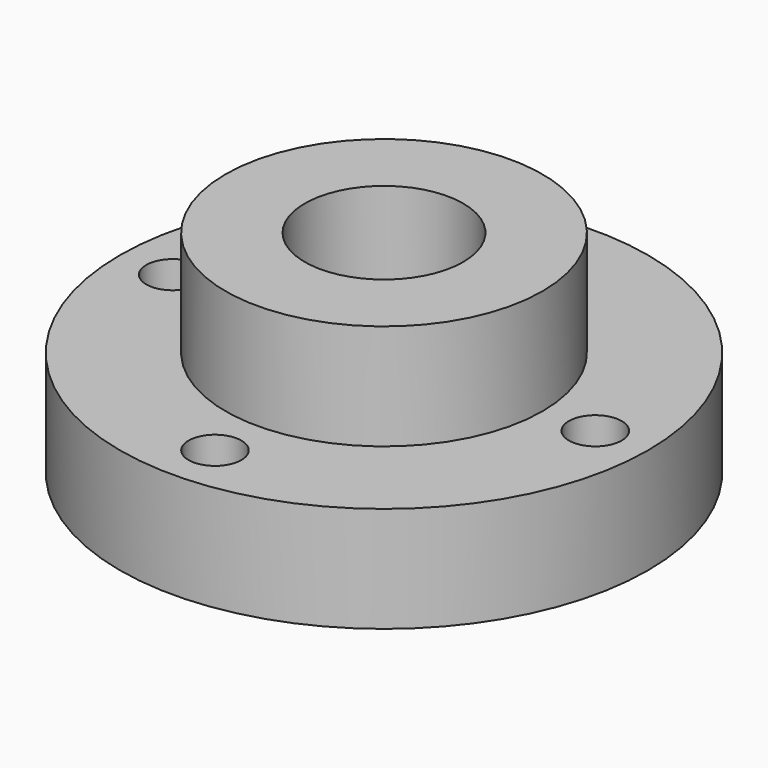
from build123d import *

# Parameters (mm, degrees)
F0_R     = 19.05
F0_R_2   = 31.75
F1_DEPTH = 12.7
F2_DEPTH = 25.4
F3_R     = 9.525
F4_DEPTH = 25.401
F5_R     = 3.175
F6_DEPTH = 12.701


with BuildPart() as f1:
    # F0 (on Top) → F1 (new body)
    with BuildSketch(Plane.XY):
        Circle(F0_R)
        Circle(F0_R_2)
        Circle(F0_R, mode=Mode.SUBTRACT)
    extrude(amount=F1_DEPTH)

    # F0 (on Top) → F2 (join)
    with BuildSketch(Plane.XY):
        Circle(F0_R)
    extrude(amount=F2_DEPTH)

    # F3 (on face) → F4 (cut, through all)
    with BuildSketch(Plane.XY.offset(25.4)):
        Circle(F3_R)
    extrude(amount=-F4_DEPTH, mode=Mode.SUBTRACT)

    # F5 (on face) → F6 (cut, through all)
    with BuildSketch(Plane.XY.offset(12.7)):
        with Locations((-25.4, 0)):
            Circle(F5_R)
        with Locations((0, -25.4)):
            Circle(F5_R)
        with Locations((25.4, 0)):
            Circle(F5_R)
        with Locations((0, 25.4)):
            Circle(F5_R)
    extrude(amount=-F6_DEPTH, mode=Mode.SUBTRACT)


solid = f1.part
